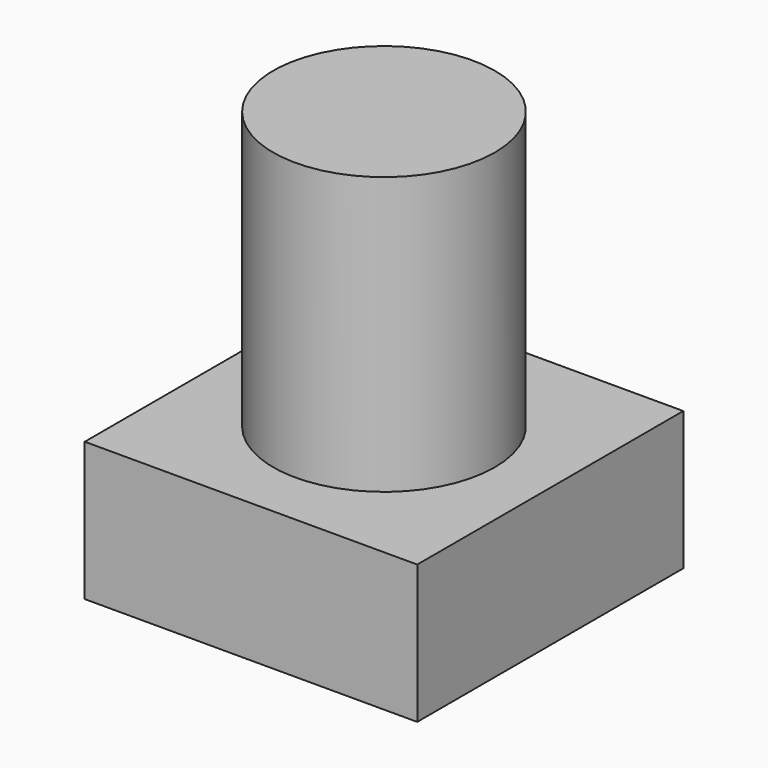
from build123d import *

# Parameters (mm, degrees)
F0_W     = 12
F0_H     = 12
F0_R     = 4
F1_DEPTH = 5
F2_R     = 4
F3_DEPTH = 15


with BuildPart() as f1:
    # F0 (on Top) → F1 (new body)
    with BuildSketch(Plane.XY):
        Rectangle(F0_W, F0_H)
        Circle(F0_R, mode=Mode.SUBTRACT)
    extrude(amount=F1_DEPTH)


with BuildPart() as f3:
    # F2 (on Top) → F3 (new body)
    with BuildSketch(Plane.XY):
        Circle(F2_R)
    extrude(amount=F3_DEPTH)


solid = Compound([f1.part, f3.part])
